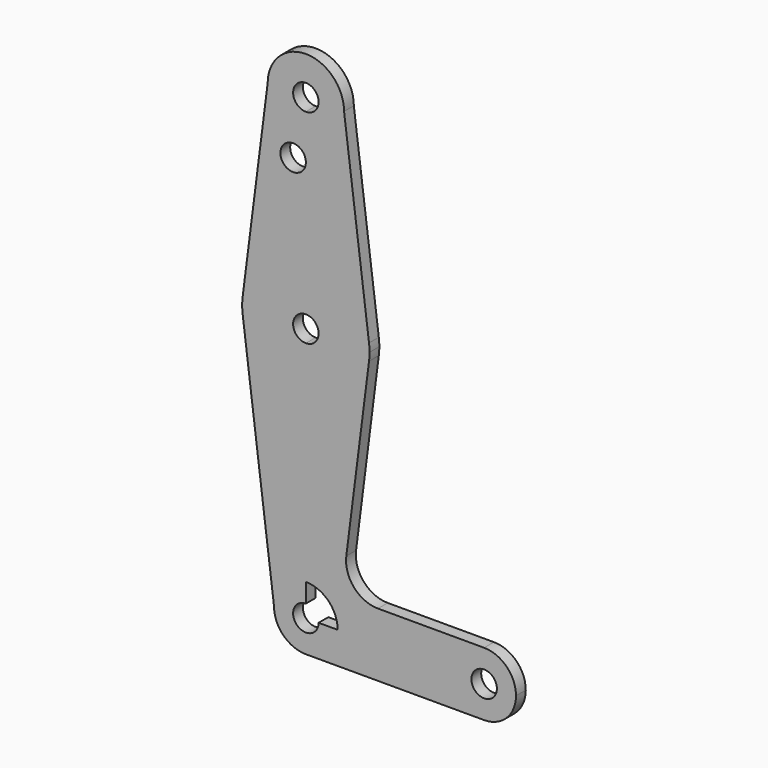
from build123d import *

# Parameters (mm, degrees)
F0_R     = 3.175
F1_DEPTH = 3.048


with BuildPart() as f1:
    # F0 (on Front) → F1 (new body)
    with BuildSketch(Plane.XZ):
        with BuildLine():
            ThreePointArc((3.175, 0), (-2.2450640303, -2.2450640303), (0, 3.175))
            Line((0, 3.175), (0, 7.9375))
            ThreePointArc((0, 7.9375), (-5.6126600757, 5.6126600757), (-7.9375, 0))
            ThreePointArc((-7.9375, 0), (-5.6126600757, -5.6126600757), (0, -7.9375))
            ThreePointArc((0, -7.9375), (5.6126600757, -5.6126600757), (7.9375, 0))
            Line((7.9375, 0), (3.175, 0))
        make_face()
        with BuildLine():
            ThreePointArc((-7.9375, 0), (-5.6126600757, 5.6126600757), (0, 7.9375))
            Line((0, 7.9375), (0, 47.625))
            ThreePointArc((0, 47.625), (-10.4943466753, 51.5884798259), (-15.7484878283, 61.4998109785))
            Line((-15.7484878283, 61.4998109785), (-7.9375, 0))
        make_face()
        with BuildLine():
            Line((0, 47.625), (0, 7.9375))
            ThreePointArc((0, 7.9375), (5.6126600757, 5.6126600757), (7.9375, 0))
            Line((7.9375, 0), (36.5125, 0))
            ThreePointArc((36.5125, 0), (38.8373399243, 5.6126600757), (44.45, 7.9375))
            Line((44.45, 7.9375), (17.969436389, 7.9375))
            ThreePointArc((17.969436389, 7.9375), (12.0041470858, 10.632131185), (10.0825936846, 16.8893946619))
            Line((10.0825936846, 16.8893946619), (15.7484878283, 61.4998109785))
            ThreePointArc((15.7484878283, 61.4998109785), (10.4943466753, 51.5884798259), (0, 47.625))
        make_face()
        with BuildLine():
            Line((36.5125, 0), (7.9375, 0))
            ThreePointArc((7.9375, 0), (5.6126600757, -5.6126600757), (0, -7.9375))
            Line((0, -7.9375), (44.45, -7.9375))
            ThreePointArc((44.45, -7.9375), (38.8373399243, -5.6126600757), (36.5125, 0))
        make_face()
        with BuildLine():
            ThreePointArc((-15.7484878283, 61.4998109785), (-10.4943466753, 51.5884798259), (0, 47.625))
            Line((0, 47.625), (0, 60.325))
            ThreePointArc((0, 60.325), (-3.175, 63.5), (0, 66.675))
            Line((0, 66.675), (0, 79.375))
            ThreePointArc((0, 79.375), (-10.4912828548, 75.4142187767), (-15.7474569047, 65.5082893304))
            ThreePointArc((-15.7474569047, 65.5082893304), (-15.874999475, 63.504082824), (-15.7484878283, 61.4998109785))
        make_face()
        with BuildLine():
            Line((0, 60.325), (0, 47.625))
            ThreePointArc((0, 47.625), (10.4943466753, 51.5884798259), (15.7484878283, 61.4998109785))
            ThreePointArc((15.7484878283, 61.4998109785), (15.8433403876, 62.4979070089), (15.875, 63.5))
            ThreePointArc((15.875, 63.5), (15.8430821396, 64.5061676396), (15.7474569047, 65.5082893304))
            ThreePointArc((15.7474569047, 65.5082893304), (10.4912828548, 75.4142187767), (0, 79.375))
            Line((0, 79.375), (0, 66.675))
            ThreePointArc((0, 66.675), (2.2450640303, 65.7450640303), (3.175, 63.5))
            ThreePointArc((3.175, 63.5), (2.2450640303, 61.2549359697), (0, 60.325))
        make_face()
        with BuildLine():
            ThreePointArc((44.45, 7.9375), (38.8373399243, 5.6126600757), (36.5125, 0))
            ThreePointArc((36.5125, 0), (38.8373399243, -5.6126600757), (44.45, -7.9375))
            ThreePointArc((44.45, -7.9375), (50.0626600757, -5.6126600757), (52.3875, 0))
            ThreePointArc((52.3875, 0), (50.0626600757, 5.6126600757), (44.45, 7.9375))
        make_face()
        with BuildLine():
            ThreePointArc((47.625, 0), (44.45, -3.175), (41.275, 0))
            ThreePointArc((41.275, 0), (44.45, 3.175), (47.625, 0))
        make_face(mode=Mode.SUBTRACT)
        with BuildLine():
            Line((-9.525, 114.3), (-15.7474569047, 65.5082893304))
            ThreePointArc((-15.7474569047, 65.5082893304), (-10.4912828548, 75.4142187767), (0, 79.375))
            Line((0, 79.375), (0, 100.0252))
            Line((0, 100.0252), (0, 104.775))
            ThreePointArc((0, 104.775), (-6.7351920908, 107.5648079092), (-9.525, 114.3))
        make_face()
        with Locations((-3.175, 100.0252)):
            Circle(F0_R, mode=Mode.SUBTRACT)
        with BuildLine():
            Line((0, 100.0252), (0, 79.375))
            ThreePointArc((0, 79.375), (10.4912828548, 75.4142187767), (15.7474569047, 65.5082893304))
            Line((15.7474569047, 65.5082893304), (9.525, 114.3))
            ThreePointArc((9.525, 114.3), (6.7351920908, 107.5648079092), (0, 104.775))
            Line((0, 104.775), (0, 100.0252))
        make_face()
        with BuildLine():
            ThreePointArc((9.525, 114.3), (0, 123.825), (-9.525, 114.3))
            ThreePointArc((-9.525, 114.3), (-6.7351920908, 107.5648079092), (0, 104.775))
            ThreePointArc((0, 104.775), (6.7351920908, 107.5648079092), (9.525, 114.3))
        make_face()
        with BuildLine():
            ThreePointArc((3.175, 114.3), (2.2450640303, 112.0549359697), (0, 111.125))
            ThreePointArc((0, 111.125), (-2.2450640303, 116.5450640303), (3.175, 114.3))
        make_face(mode=Mode.SUBTRACT)
    extrude(amount=F1_DEPTH)


solid = f1.part
